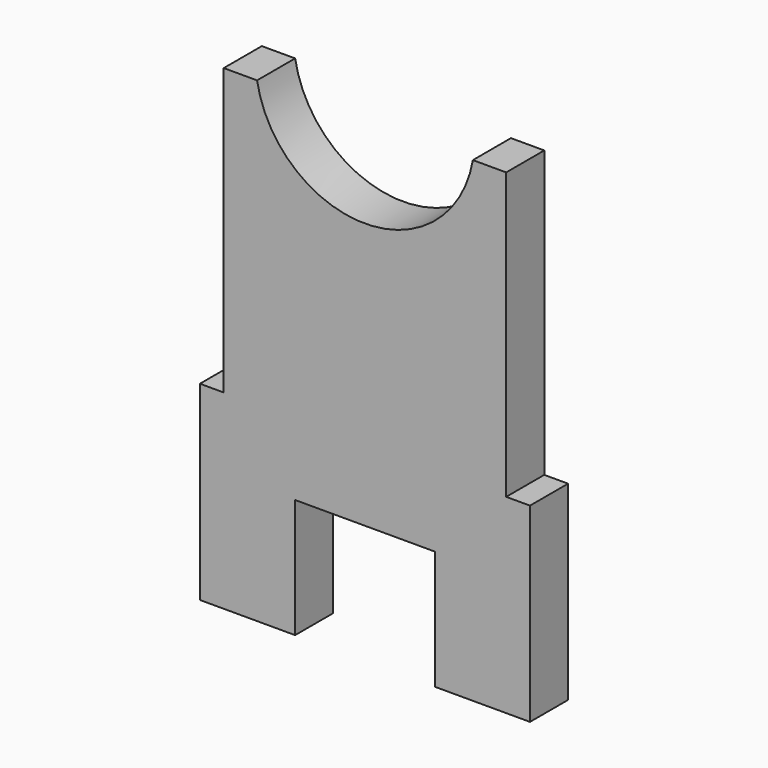
from build123d import *

# Parameters (mm, degrees)
F1_DEPTH = 12.7


with BuildPart() as f1:
    # F0 (on Front) → F1 (new body)
    with BuildSketch(Plane.XZ):
        with BuildLine():
            Line((-44.45, 76.2), (-44.45, 25.4))
            Line((-44.45, 25.4), (-19.05, 25.4))
            Line((-19.05, 25.4), (-19.05, 57.15))
            Line((-19.05, 57.15), (18.207463, 57.15))
            Line((18.207463, 57.15), (18.207463, 25.4))
            Line((18.207463, 25.4), (43.607463, 25.4))
            Line((43.607463, 25.4), (43.607463, 76.2))
            Line((43.607463, 76.2), (37.257463, 76.2))
            Line((37.257463, 76.2), (37.257463, 152.4))
            Line((37.257463, 152.4), (28.367463, 152.4))
            ThreePointArc((28.367463, 152.4), (-0.421268, 128.132977), (-29.21, 152.4))
            Line((-29.21, 152.4), (-38.1, 152.4))
            Line((-38.1, 152.4), (-38.1, 76.2))
            Line((-38.1, 76.2), (-44.45, 76.2))
        make_face()
    extrude(amount=F1_DEPTH)


solid = f1.part
